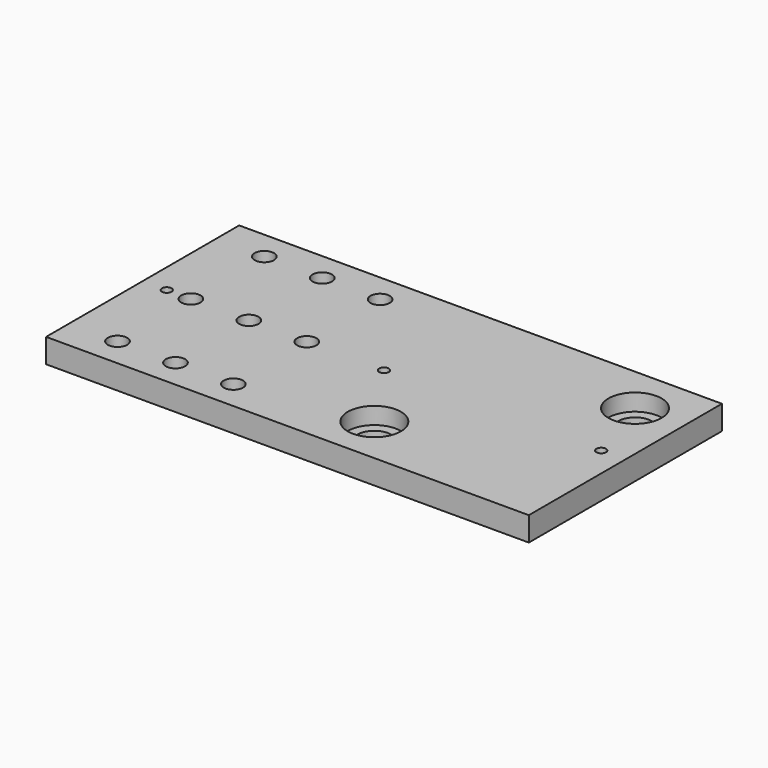
from build123d import *

# Parameters (mm, degrees)
F0_W     = 200
F0_H     = 100
F0_R     = 4
F0_R_2   = 11
F0_R_3   = 2
F1_DEPTH = 10
F0_R_4   = 7
F2_DEPTH = 3


with BuildPart() as f1:
    # F0 (on Top) → F1 (new body)
    with BuildSketch(Plane.XY):
        with Locations((-36.014734, 12.836266)):
            Rectangle(F0_W, F0_H)
        with Locations((-116.014734, -25.163734)):
            Circle(F0_R, mode=Mode.SUBTRACT)
        with Locations((-92.014734, -25.163734)):
            Circle(F0_R, mode=Mode.SUBTRACT)
        with Locations((-68.014734, -25.163734)):
            Circle(F0_R, mode=Mode.SUBTRACT)
        with Locations((-16.014734, -17.163734)):
            Circle(F0_R_2, mode=Mode.SUBTRACT)
        with Locations((-126.014734, 12.836266)):
            Circle(F0_R_3, mode=Mode.SUBTRACT)
        with Locations((-116.014734, 12.836266)):
            Circle(F0_R, mode=Mode.SUBTRACT)
        with Locations((-92.014734, 12.836266)):
            Circle(F0_R, mode=Mode.SUBTRACT)
        with Locations((-68.014734, 12.836266)):
            Circle(F0_R, mode=Mode.SUBTRACT)
        with Locations((-116.014734, 50.836266)):
            Circle(F0_R, mode=Mode.SUBTRACT)
        with Locations((-92.014734, 50.836266)):
            Circle(F0_R, mode=Mode.SUBTRACT)
        with Locations((-68.014734, 50.836266)):
            Circle(F0_R, mode=Mode.SUBTRACT)
        with Locations((-36.014734, 12.836266)):
            Circle(F0_R_3, mode=Mode.SUBTRACT)
        with Locations((53.985266, 12.836266)):
            Circle(F0_R_3, mode=Mode.SUBTRACT)
        with Locations((43.985266, 42.836266)):
            Circle(F0_R_2, mode=Mode.SUBTRACT)
    extrude(amount=F1_DEPTH)

    # F0 (on Top) → F2 (join)
    with BuildSketch(Plane.XY):
        with Locations((-16.014734, -17.163734)):
            Circle(F0_R_2)
        with Locations((-16.014734, -17.163734)):
            Circle(F0_R_4, mode=Mode.SUBTRACT)
        with Locations((43.985266, 42.836266)):
            Circle(F0_R_2)
        with Locations((43.985266, 42.836266)):
            Circle(F0_R_4, mode=Mode.SUBTRACT)
    extrude(amount=F2_DEPTH)


solid = f1.part
